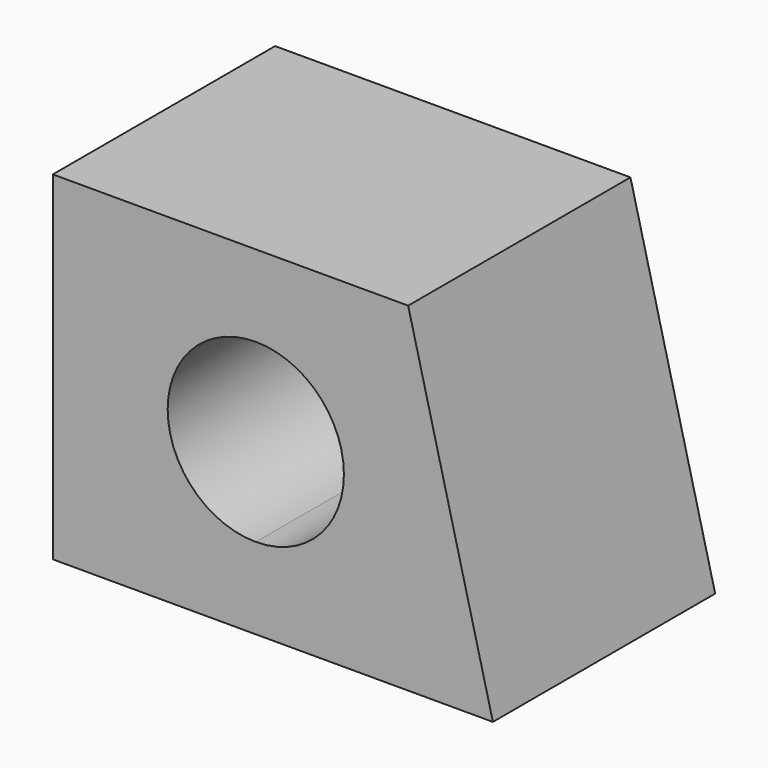
from build123d import *

# Parameters (mm, degrees)
F1_DEPTH = 10.414


with BuildPart() as f1:
    # F0 (on Front) → F1 (new body)
    with BuildSketch(Plane.XZ):
        with BuildLine():
            ThreePointArc((0, -3.302254), (-3.302254, 0), (0, 3.302254))
            Line((0, 3.302254), (0, 6.35212))
            Line((0, 6.35212), (-7.607488, 6.35212))
            Line((-7.607488, 6.35212), (-7.607488, -6.35089))
            Line((-7.607488, -6.35089), (0, -6.35089))
            Line((0, -6.35089), (0, -3.302254))
        make_face()
        with BuildLine():
            Line((0, 6.35212), (0, 3.302254))
            ThreePointArc((0, 3.302254), (2.335046, 2.335046), (3.302254, 0))
            ThreePointArc((3.302254, 0), (2.335046, -2.335046), (0, -3.302254))
            Line((0, -3.302254), (0, -6.35089))
            Line((0, -6.35089), (8.887465, -6.35089))
            Line((8.887465, -6.35089), (5.711712, 6.35212))
            Line((5.711712, 6.35212), (0, 6.35212))
        make_face()
    extrude(amount=F1_DEPTH)


solid = f1.part
